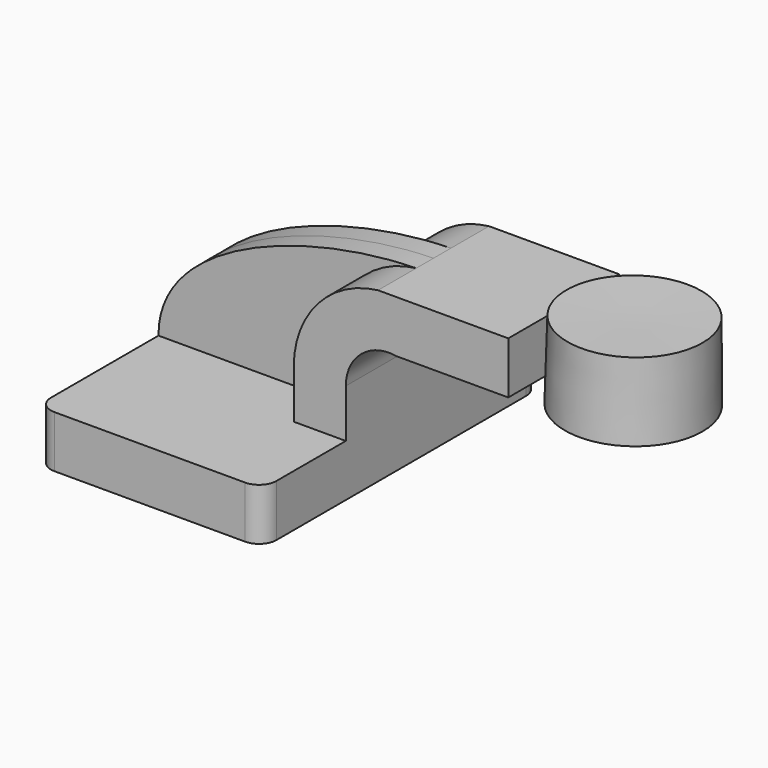
from build123d import *

# Parameters (mm, degrees)
F1_DEPTH = 63.5
F2_DEPTH = 25.4
F3_DEPTH = 7.9375
F5_R     = 6.35


with BuildPart() as f1:
    # F0 (on Front) → F1 (new body, symmetric)
    with BuildSketch(Plane.XZ):
        Polygon((-41.275, 9.525), (-41.275, -9.525), (41.275, -9.525), (41.275, 9.525), (22.225, 9.525), align=None)
    extrude(amount=F1_DEPTH, both=True)

    # F0 (on Front) → F2 (join, symmetric)
    with BuildSketch(Plane.XZ):
        with BuildLine():
            Line((22.225, 9.525), (41.275, 9.525))
            Line((41.275, 9.525), (41.275, 27.2384566661))
            ThreePointArc((41.275, 27.2384566661), (46.9392873548, 39.393989245), (59.8900516254, 42.8752))
            Line((59.8900516254, 42.8752), (85.725, 42.8752))
            Line((85.725, 42.8752), (100.7562108994, 42.8752))
            Line((100.7562108994, 42.8752), (100.7562108994, 61.9252))
            Line((100.7562108994, 61.9252), (53.0774747529, 61.9252))
            ThreePointArc((53.0774747529, 61.9252), (31.0541328056, 50.4496897306), (22.225, 27.2384566661))
            Line((22.225, 27.2384566661), (22.225, 9.525))
        make_face()
    extrude(amount=F2_DEPTH, both=True)

    # F0 (on Front) → F3 (join, symmetric)
    with BuildSketch(Plane.XZ):
        with BuildLine():
            add(Edge.make_bspline(
                [(-41.275, 9.525), (-41.4647236466, 43.065674603), (14.2484912649, 61.3165572286), (53.0774747529, 61.9252)],
                knots=[0, 0, 0, 0, 107.9266901746, 107.9266901746, 107.9266901746, 107.9266901746], degree=3))
            Line((-41.275, 9.525), (22.225, 9.525))
            Line((22.225, 9.525), (22.225, 27.2384566661))
            ThreePointArc((22.225, 27.2384566661), (31.0541328056, 50.4496897306), (53.0774747529, 61.9252))
        make_face()
    extrude(amount=F3_DEPTH, both=True)

    # F5
    f5_edges = [f1.edges().sort_by_distance(p)[0] for p in [
        (-41.275, -63.5, 0),
        (41.275, -63.5, 0),
        (41.275, 63.5, 0),
        (-41.275, 63.5, 0),
    ]]
    fillet(f5_edges, radius=F5_R)


with BuildPart() as f4:
    # F0 (on Front) → F4 (revolve)
    with BuildSketch(Plane.XZ):
        Polygon((126.6386636257, 66.675), (126.5584692614, 61.9252), (126.1562108994, 38.1), (151.5562108994, 38.1), (151.5562108994, 66.675), align=None)
    revolve(axis=Axis((126.3974372625, 0, 52.3875), (0.016881329, 0, 0.9998575002)))


solid = Compound([f1.part, f4.part])
